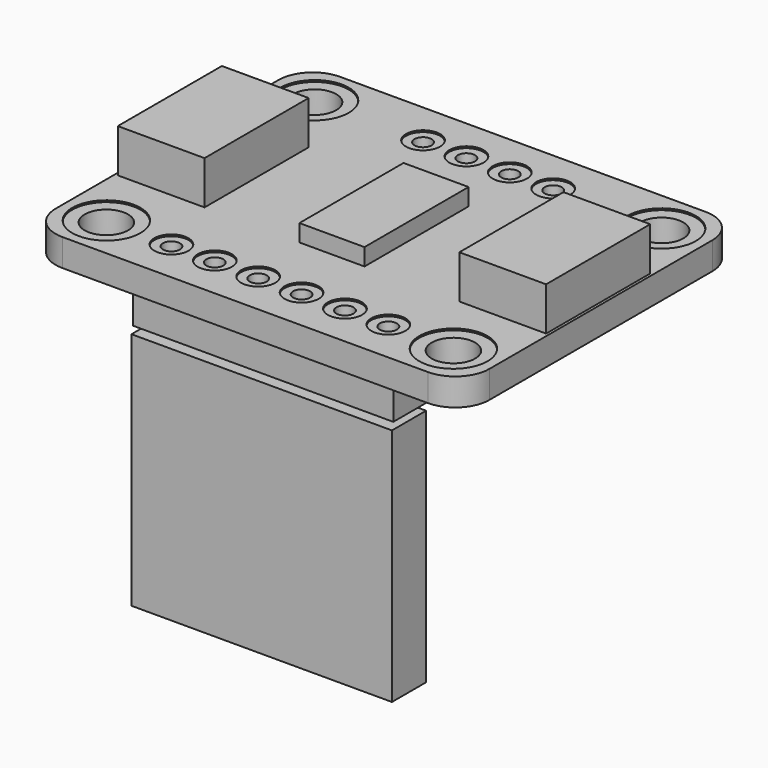
from build123d import *

# Parameters (mm, degrees)
PAD_DEPTH            = 1.6
SKETCH001_R          = 2
POCKET_DEPTH         = 0.001
POCKET_DEPTH_BACK    = 1.601
SKETCH005_R          = 1
POCKET003_DEPTH      = 1.601
POCKET003_DEPTH_BACK = -0.001
PAD001_DEPTH         = 1.4
SKETCH003_R          = 0.5
POCKET001_DEPTH      = 1.401
POCKET001_DEPTH_BACK = -0.001
SKETCH004_R          = 1.27
POCKET002_DEPTH      = 1.401
POCKET002_DEPTH_BACK = -0.001
SKETCH006_W          = 3.81
SKETCH006_H          = 7.62
PAD002_DEPTH         = 1
SKETCH007_W          = 5.08
SKETCH007_H          = 7.62
PAD003_DEPTH         = 2.54
SKETCH008_W          = 5.08
SKETCH008_H          = 7.62
PAD004_DEPTH         = 2.54
SKETCH009_W          = 15.25
SKETCH009_H          = 2.5
PAD005_DEPTH         = 2.5
SKETCH010_W          = 13.25
SKETCH010_H          = 0.6
PAD006_DEPTH         = 8.5
SKETCH011_W          = 1.9
SKETCH011_H          = 15
POCKET004_DEPTH      = 0.301
POCKET004_DEPTH_BACK = -0.301
SKETCH012_W          = 15.25
SKETCH012_H          = 2.5
PAD007_DEPTH         = 14


with BuildPart() as mainboard:
    # Sketch → Pad (new body)
    with BuildSketch(Plane.XY):
        with BuildLine():
            Line((-10.7, 10.16), (10.7, 10.16))
            ThreePointArc((12.7, 8.16), (12.114214, 9.574214), (10.7, 10.16))
            Line((12.7, 8.16), (12.7, -8.16))
            ThreePointArc((10.7, -10.16), (12.114214, -9.574214), (12.7, -8.16))
            Line((10.7, -10.16), (-10.7, -10.16))
            ThreePointArc((-12.7, -8.16), (-12.114214, -9.574214), (-10.7, -10.16))
            Line((-12.7, -8.16), (-12.7, 8.16))
            ThreePointArc((-10.7, 10.16), (-12.114214, 9.574214), (-12.7, 8.16))
        make_face()
    extrude(amount=-PAD_DEPTH)

    # Sketch001 → Pocket (cut, two sides)
    with BuildSketch(Plane.XY) as pocket_sk:
        with Locations((-10.16, 7.62)):
            Circle(SKETCH001_R)
        with Locations((10.16, 7.62)):
            Circle(SKETCH001_R)
        with Locations((10.16, -7.62)):
            Circle(SKETCH001_R)
        with Locations((-10.16, -7.62)):
            Circle(SKETCH001_R)
    extrude(amount=POCKET_DEPTH, mode=Mode.SUBTRACT)
    extrude(pocket_sk.sketch, amount=-POCKET_DEPTH_BACK, mode=Mode.SUBTRACT)

    # Sketch005 → Pocket003 (cut, two sides)
    with BuildSketch(Plane.XY) as pocket003_sk:
        with Locations((-3.81, 7.62)):
            Circle(SKETCH005_R)
        with Locations((-1.27, 7.62)):
            Circle(SKETCH005_R)
        with Locations((1.27, 7.62)):
            Circle(SKETCH005_R)
        with Locations((3.81, 7.62)):
            Circle(SKETCH005_R)
        with Locations((-6.35, -7.62)):
            Circle(SKETCH005_R)
        with Locations((-3.81, -7.62)):
            Circle(SKETCH005_R)
        with Locations((-1.27, -7.62)):
            Circle(SKETCH005_R)
        with Locations((1.27, -7.62)):
            Circle(SKETCH005_R)
        with Locations((3.81, -7.62)):
            Circle(SKETCH005_R)
        with Locations((6.35, -7.62)):
            Circle(SKETCH005_R)
    extrude(amount=-POCKET003_DEPTH, mode=Mode.SUBTRACT)
    extrude(pocket003_sk.sketch, amount=-POCKET003_DEPTH_BACK, mode=Mode.SUBTRACT)


with BuildPart() as goldboard:
    # Sketch002 → Pad001 (new body)
    with BuildSketch(Plane.XY):
        with BuildLine():
            Line((-10, 10), (10, 10))
            ThreePointArc((12.5, 7.5), (11.767767, 9.267767), (10, 10))
            Line((12.5, 7.5), (12.5, -7.5))
            ThreePointArc((10, -10), (11.767767, -9.267767), (12.5, -7.5))
            Line((10, -10), (-10, -10))
            ThreePointArc((-12.5, -7.5), (-11.767767, -9.267767), (-10, -10))
            Line((-12.5, -7.5), (-12.5, 7.5))
            ThreePointArc((-10, 10), (-11.767767, 9.267767), (-12.5, 7.5))
        make_face()
    extrude(amount=-PAD001_DEPTH)

    # Sketch003 → Pocket001 (cut, two sides)
    with BuildSketch(Plane.XY) as pocket001_sk:
        with Locations((1.27, 7.62)):
            Circle(SKETCH003_R)
        with Locations((3.81, 7.62)):
            Circle(SKETCH003_R)
        with Locations((-1.27, 7.62)):
            Circle(SKETCH003_R)
        with Locations((-3.81, 7.62)):
            Circle(SKETCH003_R)
        with Locations((6.35, -7.62)):
            Circle(SKETCH003_R)
        with Locations((3.81, -7.62)):
            Circle(SKETCH003_R)
        with Locations((1.27, -7.62)):
            Circle(SKETCH003_R)
        with Locations((-1.27, -7.62)):
            Circle(SKETCH003_R)
        with Locations((-3.81, -7.62)):
            Circle(SKETCH003_R)
        with Locations((-6.35, -7.62)):
            Circle(SKETCH003_R)
    extrude(amount=-POCKET001_DEPTH, mode=Mode.SUBTRACT)
    extrude(pocket001_sk.sketch, amount=-POCKET001_DEPTH_BACK, mode=Mode.SUBTRACT)

    # Sketch004 → Pocket002 (cut, two sides)
    with BuildSketch(Plane.XY) as pocket002_sk:
        with Locations((-10.16, 7.62)):
            Circle(SKETCH004_R)
        with Locations((10.16, 7.62)):
            Circle(SKETCH004_R)
        with Locations((10.16, -7.62)):
            Circle(SKETCH004_R)
        with Locations((-10.16, -7.62)):
            Circle(SKETCH004_R)
    extrude(amount=-POCKET002_DEPTH, mode=Mode.SUBTRACT)
    extrude(pocket002_sk.sketch, amount=-POCKET002_DEPTH_BACK, mode=Mode.SUBTRACT)


with BuildPart() as goldboard_1:
    # Body001 placement: moved
    add(goldboard.part.moved(Location((0, 0, -0.1))))


with BuildPart() as mainchip:
    # Sketch006 → Pad002 (new body)
    with BuildSketch(Plane.XY):
        Rectangle(SKETCH006_W, SKETCH006_H)
    extrude(amount=PAD002_DEPTH)


with BuildPart() as obj1:
    # Sketch007 → Pad003 (new body)
    with BuildSketch(Plane.XY):
        Rectangle(SKETCH007_W, SKETCH007_H)
    extrude(amount=PAD003_DEPTH)


with BuildPart() as obj1_1:
    # Body003 placement: moved
    add(obj1.part.moved(Location((-10, 0, 0))))


with BuildPart() as obj2:
    # Sketch008 → Pad004 (new body)
    with BuildSketch(Plane.XY):
        Rectangle(SKETCH008_W, SKETCH008_H)
    extrude(amount=PAD004_DEPTH)


with BuildPart() as obj2_1:
    # Body004 placement: moved
    add(obj2.part.moved(Location((10, 0, 0))))


with BuildPart() as pinblock1:
    # Sketch009 → Pad005 (new body)
    with BuildSketch(Plane.XY):
        Rectangle(SKETCH009_W, SKETCH009_H)
    extrude(amount=-PAD005_DEPTH)


with BuildPart() as pinblock1_1:
    # Body005 placement: moved
    add(pinblock1.part.moved(Location((0, -7.6, -1.6))))


with BuildPart() as pins:
    # Sketch010 → Pad006 (new body)
    with BuildSketch(Plane.XY):
        Rectangle(SKETCH010_W, SKETCH010_H)
    extrude(amount=-PAD006_DEPTH)

    # Sketch011 → Pocket004 (cut, two sides)
    with BuildSketch(Plane.XZ) as pocket004_sk:
        with Locations((0, -8)):
            Rectangle(SKETCH011_W, SKETCH011_H)
        with Locations((-2.55, -8)):
            Rectangle(SKETCH011_W, SKETCH011_H)
        with Locations((-5.1, -8)):
            Rectangle(SKETCH011_W, SKETCH011_H)
        with Locations((2.55, -8)):
            Rectangle(SKETCH011_W, SKETCH011_H)
        with Locations((5.1, -8)):
            Rectangle(SKETCH011_W, SKETCH011_H)
    extrude(amount=-POCKET004_DEPTH, mode=Mode.SUBTRACT)
    extrude(pocket004_sk.sketch, amount=-POCKET004_DEPTH_BACK, mode=Mode.SUBTRACT)


with BuildPart() as pins_1:
    # Body006 placement: moved
    add(pins.part.moved(Location((0, -7.7, -1.6))))


with BuildPart() as pinblock2:
    # Sketch012 → Pad007 (new body)
    with BuildSketch(Plane.XY):
        Rectangle(SKETCH012_W, SKETCH012_H)
    extrude(amount=-PAD007_DEPTH)


with BuildPart() as pinblock2_1:
    # Body007 placement: moved
    add(pinblock2.part.moved(Location((0, -7.7, -4.5))))


solid = Compound([mainboard.part, goldboard_1.part, mainchip.part, obj1_1.part, obj2_1.part, pinblock1_1.part, pins_1.part, pinblock2_1.part])
